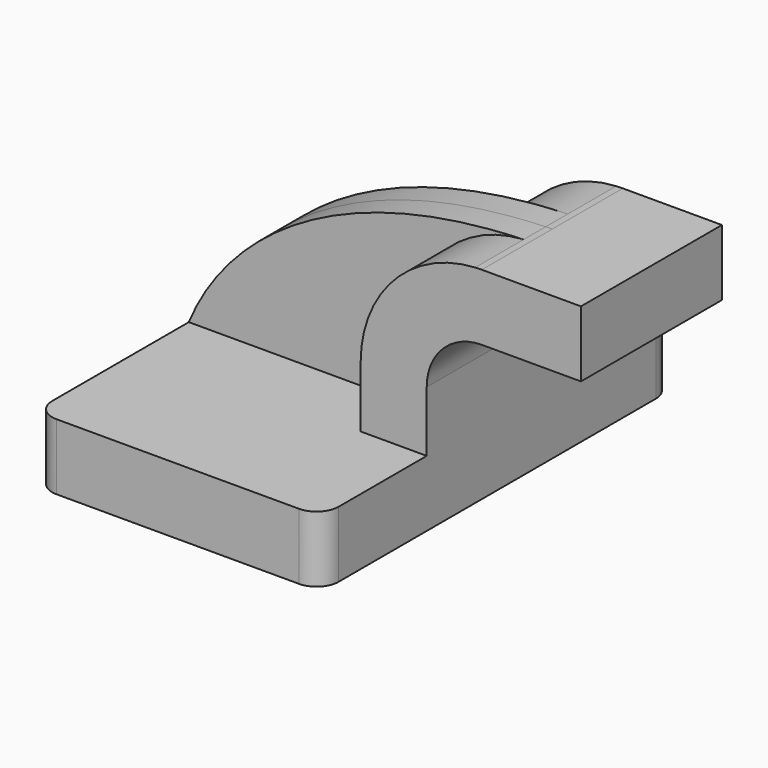
from build123d import *

# Parameters (mm, degrees)
F1_DEPTH = 63.5
F2_DEPTH = 25.4
F0_W     = 25.4
F0_H     = 19.05
F3_DEPTH = 25.4
F4_DEPTH = 7.9375
F5_R     = 6.35


with BuildPart() as f1:
    # F0 (on Front) → F1 (new body, symmetric)
    with BuildSketch(Plane.XZ):
        Polygon((41.275, -9.525), (41.275, 9.525), (22.225, 9.525), (-41.275, 9.525), (-41.275, -9.525), align=None)
    extrude(amount=F1_DEPTH, both=True)

    # F0 (on Front) → F2 (join, symmetric)
    with BuildSketch(Plane.XZ):
        with BuildLine():
            Line((22.225, 9.525), (41.275, 9.525))
            Line((41.275, 9.525), (41.275, 27.0002))
            ThreePointArc((41.275, 27.0002), (45.9246798487, 38.2255201513), (57.15, 42.8752))
            Line((57.15, 42.8752), (60.325, 42.8752))
            Line((60.325, 42.8752), (60.325, 61.9252))
            Line((60.325, 61.9252), (57.15, 61.9252))
            add(Edge.make_bspline(
                [(55.2366570208, 61.872750002), (55.8711155645, 61.8932498519), (56.5088935827, 61.9107444376), (57.15, 61.9252)],
                knots=[110.2536827307, 110.2536827307, 110.2536827307, 110.2536827307, 111.5045361635, 111.5045361635, 111.5045361635, 111.5045361635], degree=3))
            ThreePointArc((55.2366570208, 61.872750002), (31.7868463263, 51.0099076352), (22.225, 27.0002))
            Line((22.225, 27.0002), (22.225, 9.525))
        make_face()
    extrude(amount=F2_DEPTH, both=True)

    # F0 (on Front) → F3 (join, symmetric)
    with BuildSketch(Plane.XZ):
        with Locations((73.025, 52.4002)):
            Rectangle(F0_W, F0_H)
    extrude(amount=F3_DEPTH, both=True)

    # F0 (on Front) → F4 (join, symmetric)
    with BuildSketch(Plane.XZ):
        with BuildLine():
            Line((-41.275, 9.525), (22.225, 9.525))
            Line((22.225, 9.525), (22.225, 27.0002))
            ThreePointArc((22.225, 27.0002), (31.7868463263, 51.0099076352), (55.2366570208, 61.872750002))
            add(Edge.make_bspline(
                [(-41.275, 9.525), (-30.8197184048, 34.9105826404), (-0.6862745856, 60.0658365111), (55.2366570208, 61.872750002)],
                knots=[0, 0, 0, 0, 110.2536827307, 110.2536827307, 110.2536827307, 110.2536827307], degree=3))
        make_face()
    extrude(amount=F4_DEPTH, both=True)

    # F5
    f5_edges = [f1.edges().sort_by_distance(p)[0] for p in [
        (-41.275, -63.5, 0),
        (41.275, -63.5, 0),
        (-41.275, 63.5, 0),
        (41.275, 63.5, 0),
    ]]
    fillet(f5_edges, radius=F5_R)


solid = f1.part
